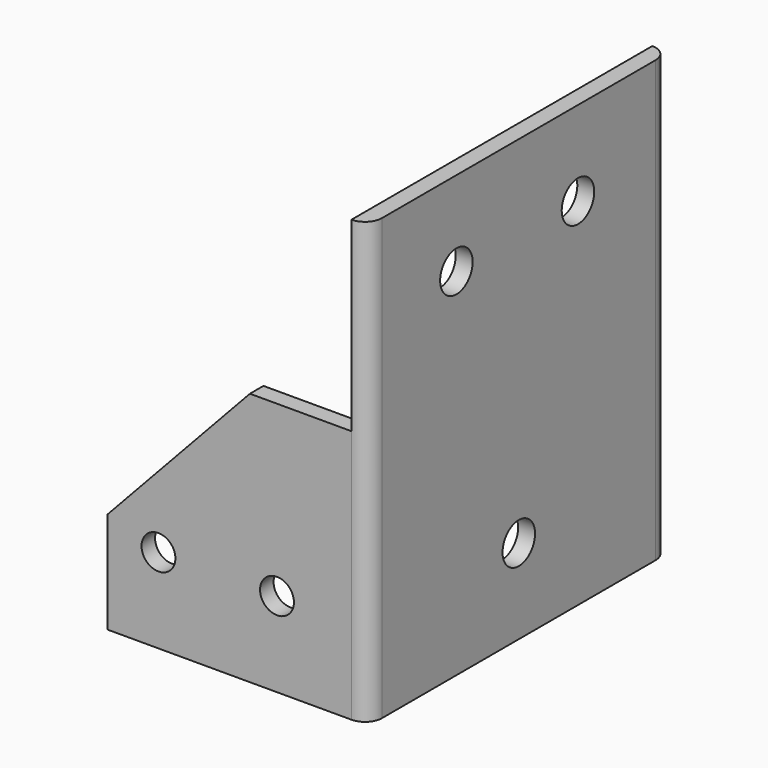
from build123d import *

# Parameters (mm, degrees)
F1_DEPTH = 130
F2_R     = 6
F3_DEPTH = 25
F4_R     = 5
F5_DEPTH = 111.001
F6_DEPTH = 111.001


with BuildPart() as f1:
    # F0 (on Top) → F1 (new body)
    with BuildSketch(Plane.XY):
        with BuildLine():
            Line((64.469191, 71.174403), (-7.530809, 71.174403))
            Line((-7.530809, 71.174403), (-7.530809, 66.174403))
            Line((-7.530809, 66.174403), (61.469191, 66.174403))
            ThreePointArc((61.469191, 66.174403), (63.590512, 65.295723), (64.469191, 63.174403))
            Line((64.469191, 63.174403), (64.469191, -31.825597))
            ThreePointArc((64.469191, -31.825597), (63.590512, -33.946918), (61.469191, -34.825597))
            Line((61.469191, -34.825597), (-7.530809, -34.825597))
            Line((-7.530809, -34.825597), (-7.530809, -39.825597))
            Line((-7.530809, -39.825597), (64.469191, -39.825597))
            ThreePointArc((64.469191, -39.825597), (68.004725, -38.361131), (69.469191, -34.825597))
            Line((69.469191, -34.825597), (69.469191, 66.174403))
            ThreePointArc((69.469191, 66.174403), (68.004725, 69.709936), (64.469191, 71.174403))
        make_face()
    extrude(amount=F1_DEPTH)

    # F2 (on face) → F3 (cut)
    with BuildSketch(Plane(origin=(64.469191, 0, 0), x_dir=(0, -1, 0), z_dir=(-1, 0, 0))):
        with Locations((-15.674403, 25)):
            Circle(F2_R)
        with Locations((-37.516489, 105)):
            Circle(F2_R)
        with Locations((7.357911, 105)):
            Circle(F2_R)
    extrude(amount=-F3_DEPTH, mode=Mode.SUBTRACT)

    # F4 (on face) → F5 (cut, through all)
    with BuildSketch(Plane(origin=(0, 71.174403, 0), x_dir=(-1, 0, 0), z_dir=(0, 1, 0))):
        with Locations((-42.469191, 25)):
            Circle(F4_R)
        with Locations((-7.469191, 25)):
            Circle(F4_R)
        Polygon((-34.469191, 75), (7.530809, 30), (7.530809, 130), (-64.469191, 130), (-64.469191, 75), align=None)
    extrude(amount=-F5_DEPTH, mode=Mode.SUBTRACT)

    # F4 (on face) → F6 (cut, through all)
    with BuildSketch(Plane(origin=(0, 71.174403, 0), x_dir=(-1, 0, 0), z_dir=(0, 1, 0))):
        with Locations((-42.469191, 25)):
            Circle(F4_R)
        with Locations((-7.469191, 25)):
            Circle(F4_R)
    extrude(amount=-F6_DEPTH, mode=Mode.SUBTRACT)


solid = f1.part
